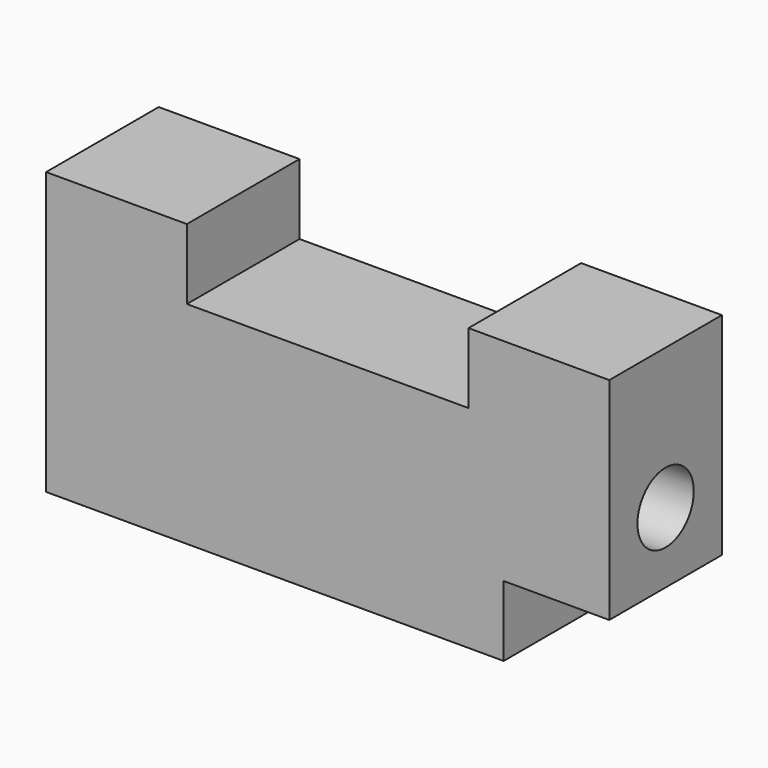
from build123d import *

# Parameters (mm, degrees)
F1_DEPTH = 25.4
F2_R     = 6.35
F3_DEPTH = 101.601


with BuildPart() as f1:
    # F0 (on Front) → F1 (new body)
    with BuildSketch(Plane.XZ):
        Polygon((50.8, -12.7), (50.8, 25.4), (25.4, 25.4), (25.4, 12.7), (-25.4, 12.7), (-25.4, 25.4), (-50.8, 25.4), (-50.8, -25.4), (31.75, -25.4), (31.75, -12.7), align=None)
    extrude(amount=F1_DEPTH)

    # F2 (on face) → F3 (cut, through all)
    with BuildSketch(Plane.YZ.offset(50.8)):
        with Locations((-12.7, 0)):
            Circle(F2_R)
    extrude(amount=-F3_DEPTH, mode=Mode.SUBTRACT)


solid = f1.part
